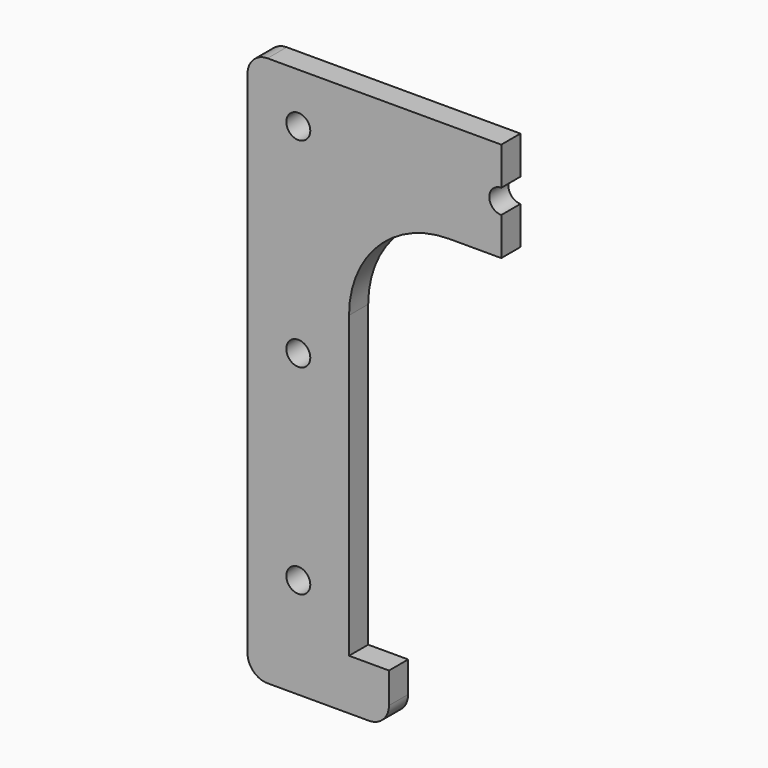
from build123d import *

# Parameters (mm, degrees)
F1_DEPTH = 6
F3_D     = 6
F4_W     = 63.5
F4_H     = 140
F5_DEPTH = 25


with BuildPart() as f1:
    # F0 (on Front) → F1 (new body)
    with BuildSketch(Plane.XZ):
        with BuildLine():
            Line((34.0407285993, 33.1888695754), (-82.9592714007, 33.1888695754))
            ThreePointArc((-82.9592714007, 33.1888695754), (-86.4948053066, 31.7244034814), (-87.9592714007, 28.1888695754))
            Line((-87.9592714007, 28.1888695754), (-87.9592714007, -99.5111304246))
            ThreePointArc((-87.9592714007, -99.5111304246), (-86.4948053066, -103.0466643305), (-82.9592714007, -104.5111304246))
            Line((-82.9592714007, -104.5111304246), (-57.5592714007, -104.5111304246))
            ThreePointArc((-57.5592714007, -104.5111304246), (-54.0237374948, -103.0466643305), (-52.5592714007, -99.5111304246))
            Line((-52.5592714007, -99.5111304246), (-52.5592714007, -91.8111304246))
            Line((-52.5592714007, -91.8111304246), (-62.5592714007, -91.8111304246))
            Line((-62.5592714007, -91.8111304246), (-62.5592714007, -16.8111304246))
            ThreePointArc((-62.5592714007, -16.8111304246), (-55.2369409303, 0.8665391051), (-37.5592714007, 8.1888695754))
            Line((-37.5592714007, 8.1888695754), (-11.3592714007, 8.1888695754))
            ThreePointArc((-11.3592714007, 8.1888695754), (6.318398129, 0.8665391051), (13.6407285993, -16.8111304246))
            Line((13.6407285993, -16.8111304246), (13.6407285993, -91.8111304246))
            Line((13.6407285993, -91.8111304246), (3.6407285993, -91.8111304246))
            Line((3.6407285993, -91.8111304246), (3.6407285993, -99.5111304246))
            ThreePointArc((3.6407285993, -99.5111304246), (5.1051946934, -103.0466643305), (8.6407285993, -104.5111304246))
            Line((8.6407285993, -104.5111304246), (34.0407285993, -104.5111304246))
            ThreePointArc((34.0407285993, -104.5111304246), (37.5762625052, -103.0466643305), (39.0407285993, -99.5111304246))
            Line((39.0407285993, -99.5111304246), (39.0407285993, 28.1888695754))
            ThreePointArc((39.0407285993, 28.1888695754), (37.5762625052, 31.7244034814), (34.0407285993, 33.1888695754))
        make_face()
    extrude(amount=F1_DEPTH)

    # F3 (through all)
    with Locations(Plane.XZ.offset(6)):
        with Locations((-75.2592714007, 20.6888695754), (-75.2592714007, -29.3111304246), (-75.2592714007, -79.3111304246), (-24.4592714007, 20.6888695754), (26.3407285993, 20.6888695754), (26.3407285993, -29.3111304246), (26.3407285993, -79.3111304246)):
            Hole(F3_D / 2)

    # F4 (on face) → F5 (cut)
    with BuildSketch(Plane.XZ.offset(6)):
        with Locations((7.2907285993, -36.8111304246)):
            Rectangle(F4_W, F4_H)
    extrude(amount=-F5_DEPTH, mode=Mode.SUBTRACT)


solid = f1.part
